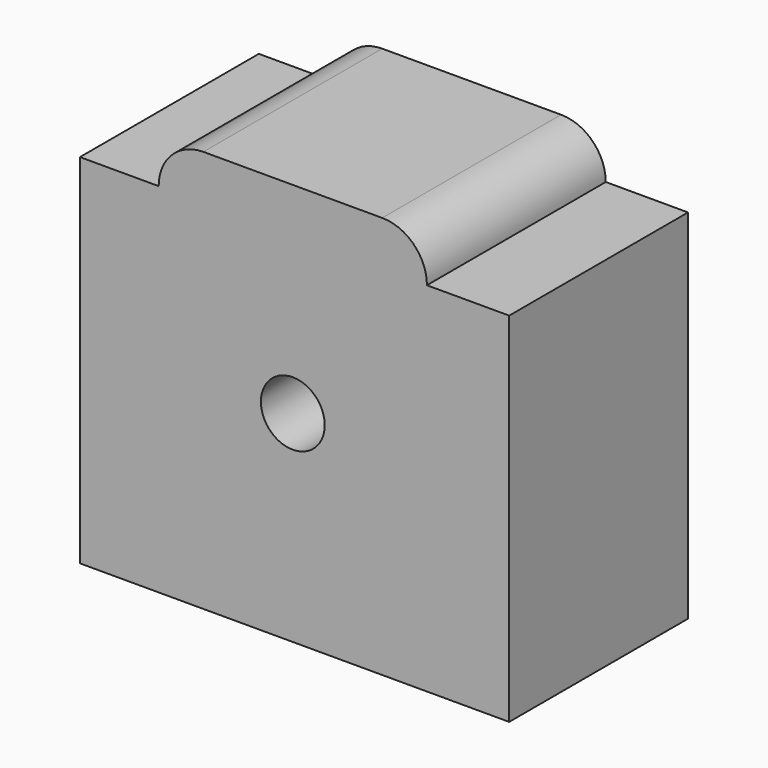
from build123d import *

# Parameters (mm, degrees)
F0_W     = 30
F0_H     = 45
F1_DEPTH = 25
F3_D     = 7.1374
F4_R     = 5
F5_DEPTH = 9.2
F6_DEPTH = 8.8


with BuildPart() as f1:
    # F0 (on Front) → F1 (new body)
    with BuildSketch(Plane.XZ):
        with Locations((15, 22.5)):
            Rectangle(F0_W, F0_H)
    extrude(amount=F1_DEPTH)

    # F3 (through all)
    with Locations(Plane.XZ.offset(25)):
        with Locations((15, 22.5)):
            Hole(F3_D / 2)

    # F4
    f4_edges = [f1.edges().sort_by_distance(p)[0] for p in [
        (30, -12.5, 45),
        (0, -12.5, 45),
    ]]
    fillet(f4_edges, radius=F4_R)

    # F5 (add): a face of the model
    f5_faces = [f1.faces().sort_by_distance(p)[0] for p in [
        (30, -12.5, 20),
    ]]
    extrude(f5_faces, amount=F5_DEPTH)

    # F6 (add): a face of the model
    f6_faces = [f1.faces().sort_by_distance(p)[0] for p in [
        (0, -12.5, 20),
    ]]
    extrude(f6_faces, amount=F6_DEPTH)


solid = f1.part
